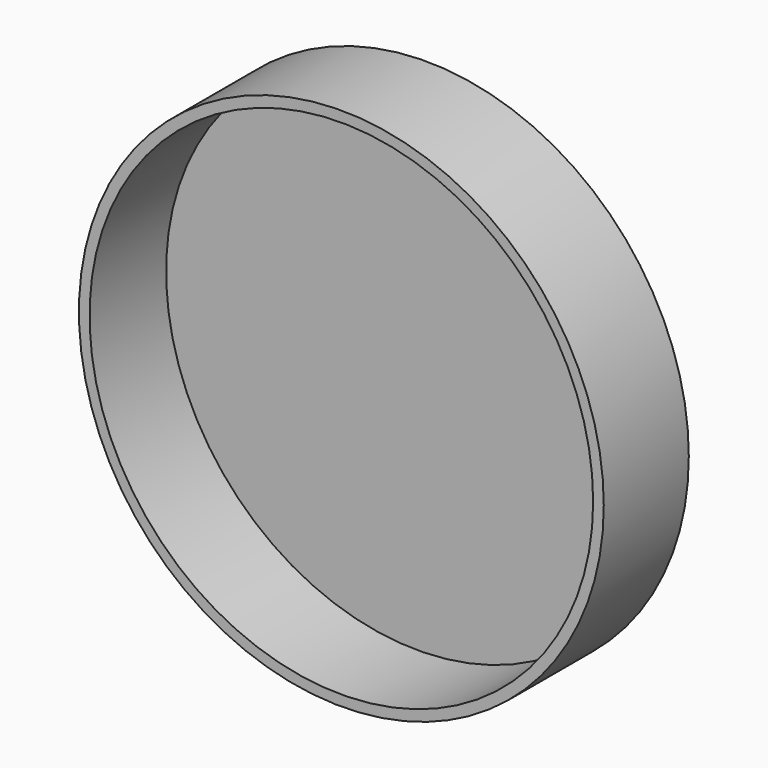
from build123d import *

# Parameters (mm, degrees)
F1_DEPTH = 25.4
F3_R     = 39.2915838244
F4_DEPTH = 25.4
F6_R     = 62.7093604839
F7_DEPTH = 25.4
F8_T     = -2.54


with BuildPart() as f1:
    # F0 (on Front) → F1 (new body)
    with BuildSketch(Plane.XZ):
        with BuildLine():
            add(Edge.make_bspline(
                [(-55.208299309, 58.1508763134), (-67.0164708846, 55.3175541912), (-87.6445105915, -47.0922011076), (101.1268779134, 10.7779345683), (-19.4909088182, 79.2065756794), (-30.9714891326, 30.3974201797), (-47.8340446405, 59.9202983407), (-55.208299309, 58.1508763134)],
                knots=[0, 0, 0, 0, 0.2192278895, 0.4966401959, 0.7260839501, 0.8630912265, 1, 1, 1, 1], degree=3))
        make_face()
    extrude(amount=F1_DEPTH)


with BuildPart() as f4:
    # F3 (on Front) → F4 (new body)
    with BuildSketch(Plane.XZ):
        Circle(F3_R)
    extrude(amount=F4_DEPTH)


with BuildPart() as f7:
    # F6 (on Front) → F7 (new body)
    with BuildSketch(Plane.XZ):
        Circle(F6_R)
    extrude(amount=F7_DEPTH)

    # F8
    f8_openings = [f7.faces().sort_by_distance(p)[0] for p in [
        (0, -25.4, 0),
    ]]
    offset(amount=F8_T, openings=f8_openings)


solid = f7.part
